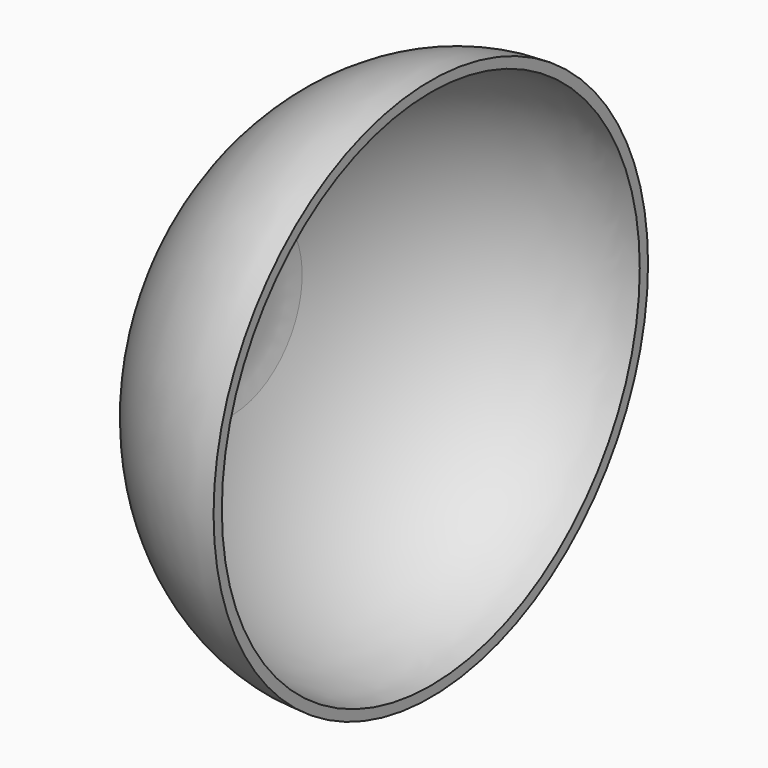
from build123d import *

# Parameters (mm, degrees)
F2_R     = 2
F3_DEPTH = 25


with BuildPart() as f1:
    # F0 (on Top) → F1 (revolve)
    with BuildSketch(Plane.XY):
        with BuildLine():
            ThreePointArc((-41.6721172142, -9.3348895784), (-41.3616426837, -13.6397795182), (-40.4366453879, -17.8555655459))
            add(Edge.make_bspline(
                [(-40.4366453879, -17.8555655459), (-30.1742138862, -52.5), (0, -52.5)],
                knots=[1.9178259526, 1.9178259526, 1.9178259526, 3.1415926536, 3.1415926536, 3.1415926536], degree=2, weights=[1, 0.8185676546, 1]))
            Line((0, -52.5), (0, -50.5))
            add(Edge.make_bspline(
                [(-38.4863104497, -17.0229205476), (-28.7836879973, -50.5), (0, -50.5)],
                knots=[5.0562106401, 5.0562106401, 5.0562106401, 6.2831853072, 6.2831853072, 6.2831853072], degree=2, weights=[1, 0.8176452579, 1]))
            ThreePointArc((-38.4863104497, -17.0229205476), (-39.374186141, -12.8892126299), (-39.6721172142, -8.6717369077))
            Line((-39.6721172142, -8.6717369077), (-39.6721172142, 0))
            Line((-39.6721172142, 0), (-40.8788120098, 0))
            Line((-40.8788120098, 0), (-41.6721172142, 0))
            Line((-41.6721172142, 0), (-41.6721172142, -9.3348895784))
        make_face()
    revolve(axis=Axis((-31.8230630362, 0, 0), (1, 0, 0)))

    # F2 (on face) → F3 (cut)
    with BuildSketch(Plane(origin=(-41.6721172142, 0, 0), x_dir=(0, -1, 0), z_dir=(-1, 0, 0))):
        Circle(F2_R)
    extrude(amount=-F3_DEPTH, mode=Mode.SUBTRACT)


solid = f1.part
